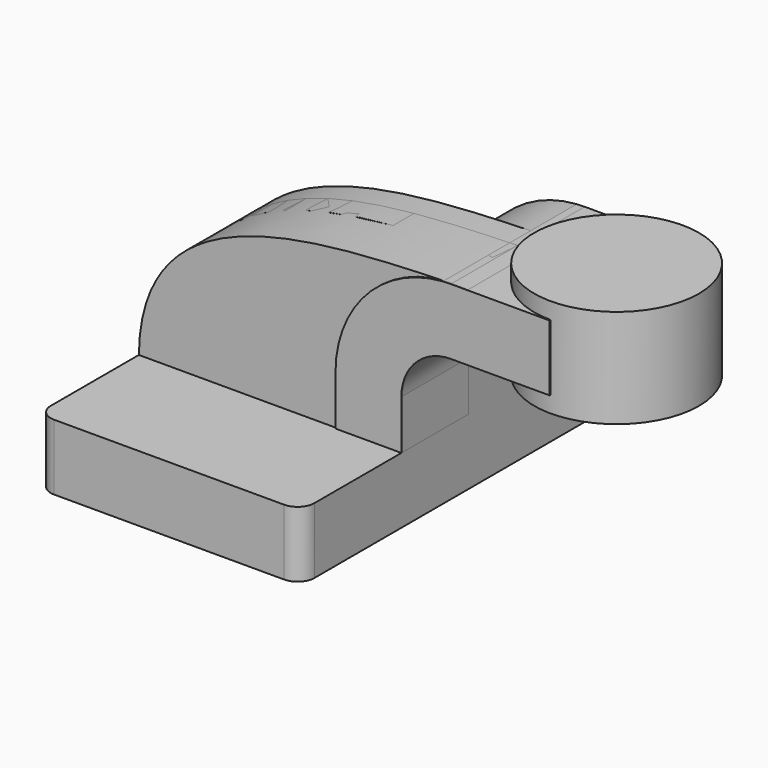
from build123d import *

# Parameters (mm, degrees)
F1_DEPTH = 63.5
F0_W     = 25
F0_H     = 20
F2_DEPTH = 25.4
F3_DEPTH = 7.9375
F5_R     = 5.08
F6_DEPTH = 25


with BuildPart() as f1:
    # F0 (on Front) → F1 (new body, symmetric)
    with BuildSketch(Plane.XZ):
        Polygon((20, 10), (-40, 10), (-40, -10), (40, -10), (40, 10), align=None)
    extrude(amount=F1_DEPTH, both=True)

    # F0 (on Front) → F2 (join, symmetric)
    with BuildSketch(Plane.XZ):
        with BuildLine():
            Line((20, 25), (20, 10))
            Line((20, 10), (40, 10))
            Line((40, 10), (40, 25))
            ThreePointArc((40, 25), (44.393398, 35.606602), (55, 40))
            Line((55, 40), (60, 40))
            Line((60, 40), (60, 60))
            Line((60, 60), (55, 60))
            add(Edge.make_bspline(
                [(52.580514, 59.916273), (53.392113, 59.944254), (54.198785, 59.972039), (55, 60)],
                knots=[105.220482, 105.220482, 105.220482, 105.220482, 107.354553, 107.354553, 107.354553, 107.354553], degree=3))
            ThreePointArc((52.580514, 59.916273), (29.410139, 48.878002), (20, 25))
        make_face()
        with Locations((72.5, 50)):
            Rectangle(F0_W, F0_H)
    extrude(amount=F2_DEPTH, both=True)

    # F0 (on Front) → F3 (join, symmetric)
    with BuildSketch(Plane.XZ):
        with BuildLine():
            add(Edge.make_bspline(
                [(-40, 10), (-39.429734, 56.682558), (12.564579, 58.536668), (52.580514, 59.916273)],
                knots=[0, 0, 0, 0, 105.220482, 105.220482, 105.220482, 105.220482], degree=3))
            Line((-40, 10), (20, 10))
            Line((20, 10), (20, 25))
            ThreePointArc((20, 25), (29.410139, 48.878002), (52.580514, 59.916273))
        make_face()
    extrude(amount=F3_DEPTH, both=True)

    # F0 (on Front) → F4 (revolve)
    with BuildSketch(Plane.XZ):
        Polygon((85, 65), (85, 60), (85, 40), (85, 35), (110, 35), (110, 65), align=None)
    revolve(axis=Axis((85, 0, 50), (0, 0, 1)))

    # F5
    f5_edges = [f1.edges().sort_by_distance(p)[0] for p in [
        (40, -63.5, 0),
        (-40, -63.5, 0),
        (40, 63.5, 0),
        (-40, 63.5, 0),
    ]]
    fillet(f5_edges, radius=F5_R)


with BuildPart() as f6:
    # F0 (on Front) → F6 (new body)
    with BuildSketch(Plane.XZ):
        with BuildLine():
            Line((20, 25), (20, 10))
            Line((20, 10), (40, 10))
            Line((40, 10), (40, 25))
            ThreePointArc((40, 25), (44.393398, 35.606602), (55, 40))
            Line((55, 40), (60, 40))
            Line((60, 40), (60, 60))
            Line((60, 60), (55, 60))
            add(Edge.make_bspline(
                [(52.580514, 59.916273), (53.392113, 59.944254), (54.198785, 59.972039), (55, 60)],
                knots=[105.220482, 105.220482, 105.220482, 105.220482, 107.354553, 107.354553, 107.354553, 107.354553], degree=3))
            ThreePointArc((52.580514, 59.916273), (29.410139, 48.878002), (20, 25))
        make_face()
        with BuildLine():
            add(Edge.make_bspline(
                [(-40, 10), (-39.429734, 56.682558), (12.564579, 58.536668), (52.580514, 59.916273)],
                knots=[0, 0, 0, 0, 105.220482, 105.220482, 105.220482, 105.220482], degree=3))
            Line((-40, 10), (20, 10))
            Line((20, 10), (20, 25))
            ThreePointArc((20, 25), (29.410139, 48.878002), (52.580514, 59.916273))
        make_face()
    extrude(amount=F6_DEPTH)


solid = Compound([f1.part, f6.part])
